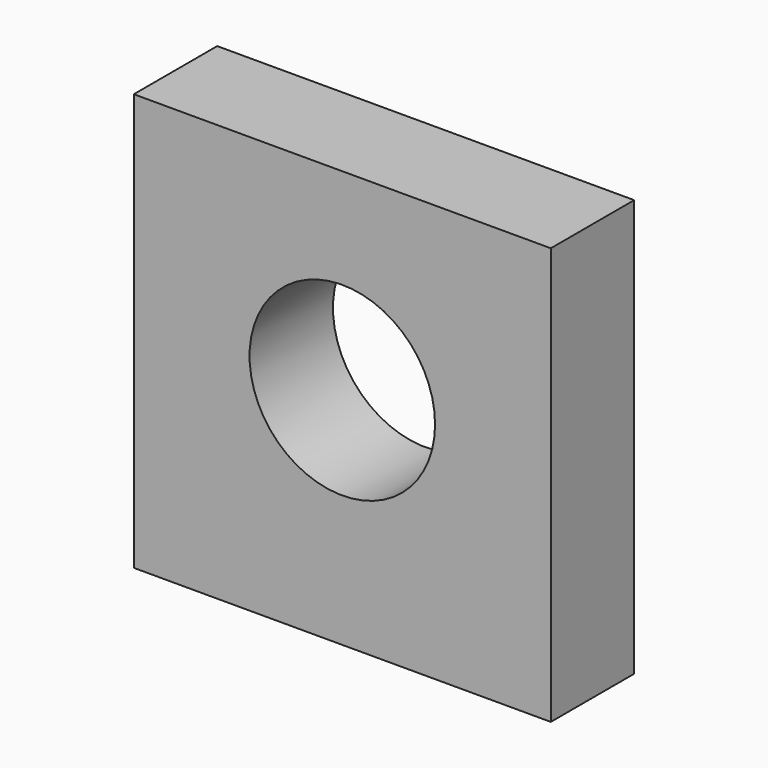
from build123d import *

# Parameters (mm, degrees)
F0_W     = 50.8
F0_H     = 50.8
F0_R     = 11.298879
F1_DEPTH = 12.7
F2_DEPTH = 12.7


with BuildPart() as f1:
    # F0 (on Front) → F1 (new body)
    with BuildSketch(Plane.XZ):
        with Locations((6.445251, 7.359565)):
            Rectangle(F0_W, F0_H)
        with Locations((6.445251, 9.280269)):
            Circle(F0_R, mode=Mode.SUBTRACT)
    extrude(amount=F1_DEPTH)

    # F0 (on Front) → F2 (join)
    with BuildSketch(Plane.XZ):
        with Locations((6.445251, 7.359565)):
            Rectangle(F0_W, F0_H)
        with Locations((6.445251, 9.280269)):
            Circle(F0_R, mode=Mode.SUBTRACT)
    extrude(amount=F2_DEPTH)


solid = f1.part
